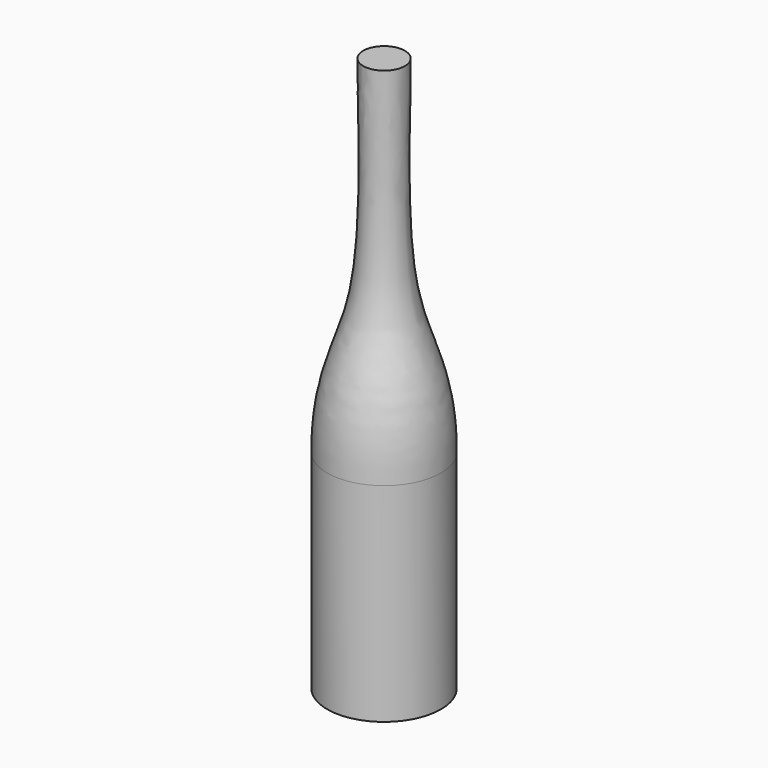
from build123d import *


with BuildPart() as f1:
    # F0 (on Front) → F1 (revolve)
    with BuildSketch(Plane.XZ):
        with BuildLine():
            Line((0, 0), (41, 0))
            Line((41, 0), (41, 150))
            add(Edge.make_bspline(
                [(15, 400), (15, 350), (9.3374534949, 239.0422591152), (41, 200), (41, 150)],
                knots=[0, 0, 0, 0, 0.5479079181, 1, 1, 1, 1], degree=3))
            Line((15, 400), (0, 400))
            Line((0, 400), (0, 0))
        make_face()
    revolve(axis=Axis((0, 0, 36.502153865), (0, 0, -1)))


solid = f1.part
